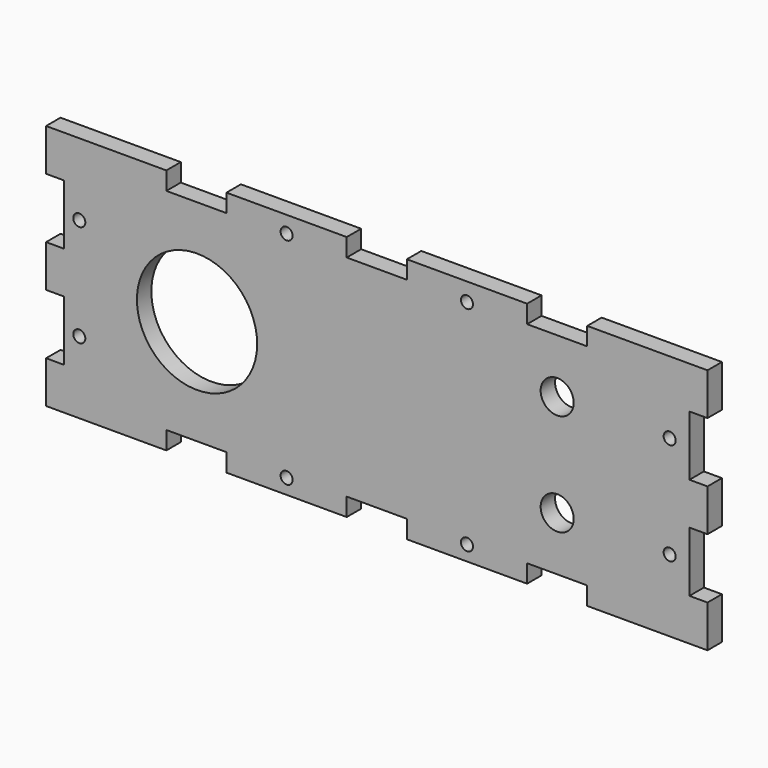
from build123d import *

# Parameters (mm, degrees)
F0_R     = 1
F0_R_2   = 10
F0_R_3   = 2.75
F1_DEPTH = 3


with BuildPart() as f1:
    # F0 (on Front) → F1 (new body)
    with BuildSketch(Plane.XZ):
        Polygon((-51.975646, 2.591607), (-54.975646, 2.591607), (-54.975646, -0.908393), (-54.975646, -4.408393), (-51.975646, -4.408393), (-51.975646, -14.408393), (-54.975646, -14.408393), (-54.975646, -21.408393), (-34.975646, -21.408393), (-34.975646, -18.408393), (-24.975646, -18.408393), (-24.975646, -21.408393), (-4.975646, -21.408393), (-4.975646, -18.408393), (0.024354, -18.408393), (5.024354, -18.408393), (5.024354, -21.408393), (25.024354, -21.408393), (25.024354, -18.408393), (35.024354, -18.408393), (35.024354, -21.408393), (55.024354, -21.408393), (55.024354, -14.408393), (52.024354, -14.408393), (52.024354, -4.408393), (55.024354, -4.408393), (55.024354, -0.908393), (55.024354, 2.591607), (52.024354, 2.591607), (52.024354, 12.591607), (55.024354, 12.591607), (55.024354, 19.591607), (35.024354, 19.591607), (35.024354, 16.591607), (25.024354, 16.591607), (25.024354, 19.591607), (5.024354, 19.591607), (5.024354, 16.591607), (0.024354, 16.591607), (-4.975646, 16.591607), (-4.975646, 19.591607), (-24.975646, 19.591607), (-24.975646, 16.591607), (-34.975646, 16.591607), (-34.975646, 19.591607), (-54.975646, 19.591607), (-54.975646, 12.591607), (-51.975646, 12.591607), align=None)
        with Locations((-14.975646, -18.908393)):
            Circle(F0_R, mode=Mode.SUBTRACT)
        with Locations((-49.452938, -9.408393)):
            Circle(F0_R, mode=Mode.SUBTRACT)
        with Locations((-29.869903, -0.908393)):
            Circle(F0_R_2, mode=Mode.SUBTRACT)
        with Locations((15.024354, -18.908393)):
            Circle(F0_R, mode=Mode.SUBTRACT)
        with Locations((30.024354, -9.408393)):
            Circle(F0_R_3, mode=Mode.SUBTRACT)
        with Locations((48.734484, -9.408393)):
            Circle(F0_R, mode=Mode.SUBTRACT)
        with Locations((-49.452938, 7.591607)):
            Circle(F0_R, mode=Mode.SUBTRACT)
        with Locations((-14.975646, 16.840009)):
            Circle(F0_R, mode=Mode.SUBTRACT)
        with Locations((30.024354, 7.591607)):
            Circle(F0_R_3, mode=Mode.SUBTRACT)
        with Locations((48.734484, 7.591607)):
            Circle(F0_R, mode=Mode.SUBTRACT)
        with Locations((15.024354, 16.571959)):
            Circle(F0_R, mode=Mode.SUBTRACT)
    extrude(amount=F1_DEPTH)


solid = f1.part
